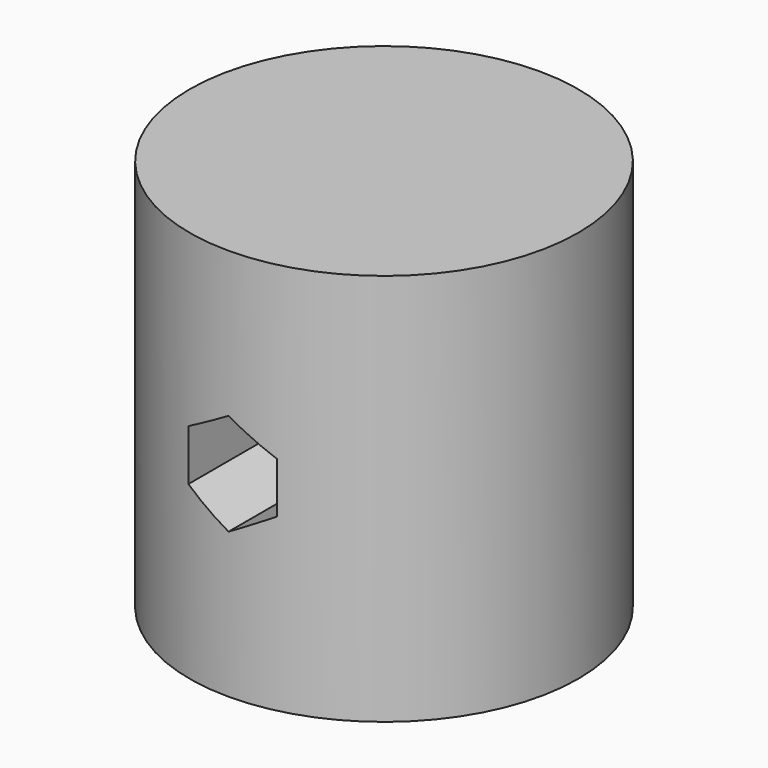
from build123d import *

# Parameters (mm, degrees)
F0_R          = 9.9
F1_DEPTH      = 20
F3_DEPTH      = 9.901
F3_DEPTH_BACK = 9.901


with BuildPart() as f1:
    # F0 (on Top) → F1 (new body)
    with BuildSketch(Plane.XY):
        Circle(F0_R)
    extrude(amount=F1_DEPTH)

    # F2 (on Front) → F3 (cut, two sides)
    with BuildSketch(Plane.XZ) as f3_sk:
        Polygon((2.25, 8.7009618943), (2.25, 11.2990381057), (0, 12.5980762114), (-2.25, 11.2990381057), (-2.25, 8.7009618943), (0, 7.4019237886), align=None)
    extrude(amount=-F3_DEPTH, mode=Mode.SUBTRACT)
    extrude(f3_sk.sketch, amount=F3_DEPTH_BACK, mode=Mode.SUBTRACT)


solid = f1.part
